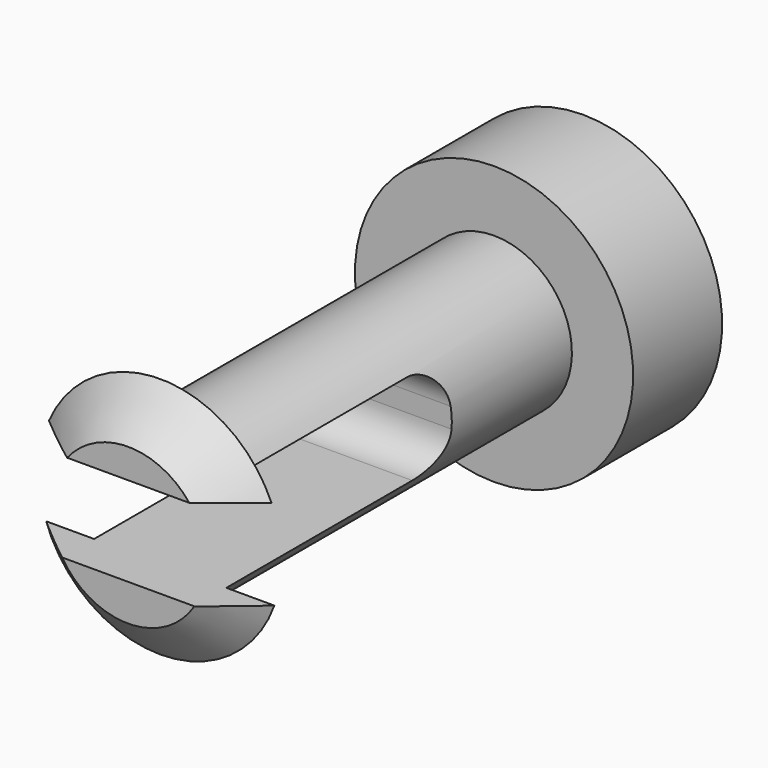
from build123d import *

# Parameters (mm, degrees)
F2_W     = 4.5
F2_H     = 1.2857143477
F3_DEPTH = 12.5
F4_R     = 0.5


with BuildPart() as f1:
    # F0 (on Right) → F1 (revolve)
    with BuildSketch(Plane.YZ):
        Polygon((-7.3752667787, 1.1195156959), (-6.8, 1.1195156959), (-6.8, 1.7445156959), align=None)
        Polygon((-7.3752667787, 0), (-0.8, 0), (-0.8, 1.1195156959), (-6.8, 1.1195156959), (-7.3752667787, 1.1195156959), align=None)
        Polygon((-0.8, 0), (0.8, 0), (0.8, 2), (-0.8, 2), (-0.8, 1.1195156959), align=None)
    revolve(axis=Axis((0, -2.8302398277, 0), (0, -1, 0)))

    # F2 (on Right) → F3 (cut, symmetric)
    with BuildSketch(Plane.YZ):
        with Locations((-5.2082390757, 0.0517627923)):
            Rectangle(F2_W, F2_H)
    extrude(amount=F3_DEPTH, both=True, mode=Mode.SUBTRACT)

    # F4
    f4_edges = [f1.edges().sort_by_distance(p)[0] for p in [
        (0, -2.958239, -0.591094),
        (0, -2.958239, 0.69462),
    ]]
    fillet(f4_edges, radius=F4_R)


solid = f1.part
